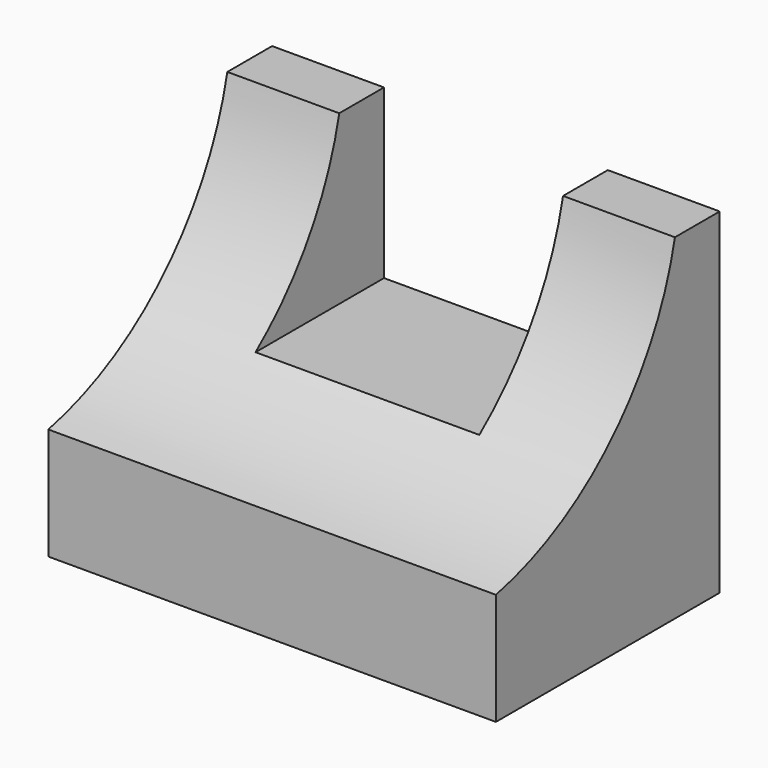
from build123d import *

# Parameters (mm, degrees)
F0_W     = 50.8
F0_H     = 38.1
F1_DEPTH = 31.75
F3_DEPTH = 50.801
F4_W     = 25.4
F4_H     = 19.05
F5_DEPTH = 31.751


with BuildPart() as f1:
    # F0 (on Front) → F1 (new body)
    with BuildSketch(Plane.XZ):
        with Locations((25.4, 19.05)):
            Rectangle(F0_W, F0_H)
        with Locations((25.4, 19.05)):
            Rectangle(F0_W, F0_H)
    extrude(amount=F1_DEPTH)

    # F2 (on face) → F3 (cut, through all)
    with BuildSketch(Plane.YZ.offset(50.8)):
        with BuildLine():
            Line((-31.75, 38.1), (-31.75, 12.7))
            ThreePointArc((-31.75, 12.7), (-15.298829, 21.648829), (-6.35, 38.1))
            Line((-6.35, 38.1), (-31.75, 38.1))
        make_face()
    extrude(amount=-F3_DEPTH, mode=Mode.SUBTRACT)

    # F4 (on face) → F5 (cut, through all)
    with BuildSketch(Plane(origin=(0, 0, 0), x_dir=(-1, 0, 0), z_dir=(0, 1, 0))):
        with Locations((-25.4, 28.575)):
            Rectangle(F4_W, F4_H)
    extrude(amount=-F5_DEPTH, mode=Mode.SUBTRACT)


solid = f1.part
